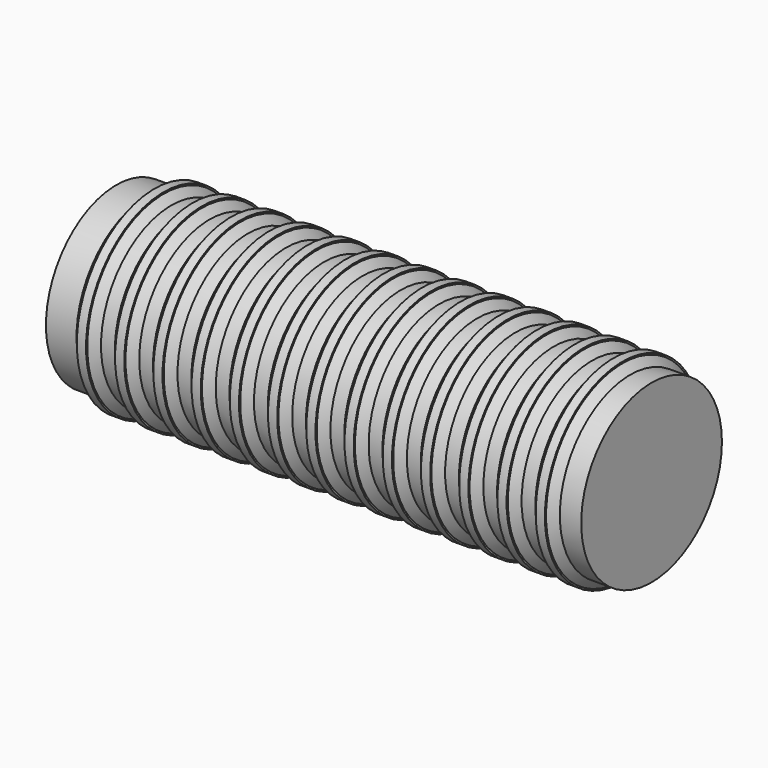
from build123d import *

# Parameters (mm, degrees)
F0_W    = 1.2
F0_H    = 1.2
F2_SIZE = 1


with BuildPart() as f1:
    # F0 (on Top) → F1 (revolve)
    with BuildSketch(Plane.XY):
        Polygon((-26.212729, 11.5), (-26.212729, 0), (43.787271, 0), (43.787271, 11.5), (39.987271, 11.5), (38.787271, 11.5), (34.987271, 11.5), (33.787271, 11.5), (29.987271, 11.5), (28.787271, 11.5), (24.987271, 11.5), (23.787271, 11.5), (19.987271, 11.5), (18.787271, 11.5), (14.987271, 11.5), (13.787271, 11.5), (9.987271, 11.5), (8.787271, 11.5), (4.987271, 11.5), (3.787271, 11.5), (-0.012729, 11.5), (-1.212729, 11.5), (-5.012729, 11.5), (-6.212729, 11.5), (-10.012729, 11.5), (-11.212729, 11.5), (-15.012729, 11.5), (-16.212729, 11.5), (-20.012729, 11.5), (-21.212729, 11.5), align=None)
        with Locations((19.387271, 12.1)):
            Rectangle(F0_W, F0_H)
        with Locations((14.387271, 12.1)):
            Rectangle(F0_W, F0_H)
        with Locations((9.387271, 12.1)):
            Rectangle(F0_W, F0_H)
        with Locations((4.387271, 12.1)):
            Rectangle(F0_W, F0_H)
        with Locations((-0.612729, 12.1)):
            Rectangle(F0_W, F0_H)
        with Locations((-5.612729, 12.1)):
            Rectangle(F0_W, F0_H)
        with Locations((-10.612729, 12.1)):
            Rectangle(F0_W, F0_H)
        with Locations((-15.612729, 12.1)):
            Rectangle(F0_W, F0_H)
        with Locations((-20.612729, 12.1)):
            Rectangle(F0_W, F0_H)
        with Locations((24.387271, 12.1)):
            Rectangle(F0_W, F0_H)
        with Locations((29.387271, 12.1)):
            Rectangle(F0_W, F0_H)
        with Locations((34.387271, 12.1)):
            Rectangle(F0_W, F0_H)
        with Locations((39.387271, 12.1)):
            Rectangle(F0_W, F0_H)
    revolve(axis=Axis((8.787271, 0, 0), (1, 0, 0)))

    # F2
    f2_edges = [f1.edges().sort_by_distance(p)[0] for p in [
        (-21.212729, -11.5, 0),
        (-16.212729, -11.5, 0),
        (-11.212729, -11.5, 0),
        (-6.212729, -11.5, 0),
        (19.987271, -11.5, 0),
        (14.987271, -11.5, 0),
        (9.987271, -11.5, 0),
        (4.987271, -11.5, 0),
        (-1.212729, -11.5, 0),
        (-0.012729, -11.5, 0),
        (-20.012729, -11.5, 0),
        (-15.012729, -11.5, 0),
        (-10.012729, -11.5, 0),
        (-5.012729, -11.5, 0),
        (3.787271, -11.5, 0),
        (8.787271, -11.5, 0),
        (13.787271, -11.5, 0),
        (18.787271, -11.5, 0),
        (23.787271, -11.5, 0),
        (24.987271, -11.5, 0),
        (28.787271, -11.5, 0),
        (29.987271, -11.5, 0),
        (33.787271, -11.5, 0),
        (34.987271, -11.5, 0),
        (38.787271, -11.5, 0),
        (39.987271, -11.5, 0),
    ]]
    chamfer(f2_edges, length=F2_SIZE)


solid = f1.part
